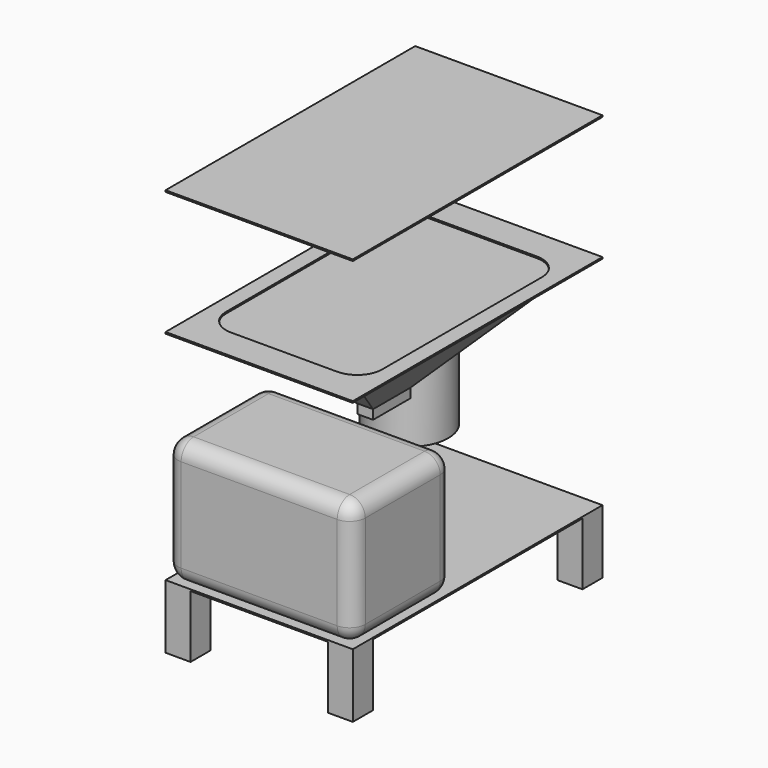
from build123d import *

# Parameters (mm, degrees)
F4_W       = 600
F4_H       = 1000
F5_DEPTH   = 5
F7_DEPTH   = 400
F8_R       = 50
F9_R       = 50
F10_W      = 600
F10_H      = 1000
F11_DEPTH  = 5
F13_DEPTH  = 5
F15_DEPTH  = 30
F16_R      = 125
F17_DEPTH  = 250
F18_W      = 50
F18_H      = 150
F19_DEPTH  = 30
F19_FACE_W = 50
F19_FACE_H = 150
F15_FACE_W = 500
F15_FACE_H = 800
F21_W      = 600
F21_H      = 1000
F22_DEPTH  = 5
F23_W      = 80
F23_H      = 80
F24_DEPTH  = 200


with BuildPart() as f5:
    # F4 (on offset) → F5 (new body)
    with BuildSketch(Plane.XY.offset(-450)):
        Rectangle(F4_W, F4_H)
    extrude(amount=F5_DEPTH)

    # F23 (on face) → F24 (join)
    with BuildSketch(Plane(origin=(0, 0, -450), x_dir=(1, 0, 0), z_dir=(0, 0, -1))):
        with Locations((-260, 460)):
            Rectangle(F23_W, F23_H)
        with Locations((260, 460)):
            Rectangle(F23_W, F23_H)
        with Locations((260, -460)):
            Rectangle(F23_W, F23_H)
        with Locations((-260, -460)):
            Rectangle(F23_W, F23_H)
    extrude(amount=F24_DEPTH)


with BuildPart() as f7:
    # F6 (on face) → F7 (new body)
    with BuildSketch(Plane.XY.offset(-445)):
        with BuildLine():
            ThreePointArc((-300, -450), (-285.3553390593, -485.3553390593), (-250, -500))
            Line((-250, -500), (250, -500))
            ThreePointArc((250, -500), (285.3553390593, -485.3553390593), (300, -450))
            Line((300, -450), (300, -150))
            ThreePointArc((300, -150), (285.3553390593, -114.6446609407), (250, -100))
            Line((250, -100), (-250, -100))
            ThreePointArc((-250, -100), (-285.3553390593, -114.6446609407), (-300, -150))
            Line((-300, -150), (-300, -450))
        make_face()
    extrude(amount=F7_DEPTH)

    # F8
    f8_edges = [f7.edges().sort_by_distance(p)[0] for p in [
        (300, -300, -45),
    ]]
    fillet(f8_edges, radius=F8_R)

    # F9
    f9_edges = [f7.edges().sort_by_distance(p)[0] for p in [
        (-285.355339, -114.644661, -445),
        (-300, -300, -445),
        (-285.355339, -485.355339, -445),
        (0, -500, -445),
        (285.355339, -485.355339, -445),
        (300, -300, -445),
        (285.355339, -114.644661, -445),
        (0, -100, -445),
    ]]
    fillet(f9_edges, radius=F9_R)


with BuildPart() as f11:
    # F10 (on offset) → F11 (new body)
    with BuildSketch(Plane.XY.offset(250)):
        Rectangle(F10_W, F10_H)
    extrude(amount=F11_DEPTH)

    # F12 (on face) → F13 (cut, symmetric)
    with BuildSketch(Plane.XY.offset(255)):
        with BuildLine():
            Line((170, 400), (-170, 400))
            ThreePointArc((-170, 400), (-226.5685424949, 376.5685424949), (-250, 320))
            Line((-250, 320), (-250, -320))
            ThreePointArc((-250, -320), (-226.5685424949, -376.5685424949), (-170, -400))
            Line((-170, -400), (170, -400))
            ThreePointArc((170, -400), (226.5685424949, -376.5685424949), (250, -320))
            Line((250, -320), (250, 320))
            ThreePointArc((250, 320), (226.5685424949, 376.5685424949), (170, 400))
        make_face()
    extrude(amount=F13_DEPTH, both=True, mode=Mode.SUBTRACT)


with BuildPart() as f15:
    # F14 (on face) → F15 (new body)
    with BuildSketch(Plane(origin=(0, 0, 250), x_dir=(1, 0, 0), z_dir=(0, 0, -1))):
        Polygon((170, 400), (-170, 400), (-250, 400), (-250, 320), (-250, -320), (-250, -400), (-170, -400), (170, -400), (250, -400), (250, -320), (250, 320), (250, 400), align=None)
    extrude(amount=F15_DEPTH)



with BuildPart() as f17:
    # F16 (on offset) → F17 (new body)
    with BuildSketch(Plane.XY.offset(-30)):
        with Locations((-155, 295)):
            Circle(F16_R)
    extrude(amount=-F17_DEPTH)


with BuildPart() as f19:
    # F18 (on offset) → F19 (new body)
    with BuildSketch(Plane.XY.offset(-30)):
        Rectangle(F18_W, F18_H)
    extrude(amount=-F19_DEPTH)


with BuildPart() as f15_1:
    add(f15.part)

    add(f19.part)  # F20 merges F19
    # F19_face (on face) → F20 section 0
    with BuildSketch(Plane.XY.offset(-30)):
        Rectangle(F19_FACE_W, F19_FACE_H)
    # F15_face (on face) → F20 section 1
    with BuildSketch(Plane(origin=(0, 0, 220), x_dir=(1, 0, 0), z_dir=(0, 0, -1))):
        Rectangle(F15_FACE_W, F15_FACE_H)
    loft()


with BuildPart() as f22:
    # F21 (on offset) → F22 (new body)
    with BuildSketch(Plane.XY.offset(650)):
        Rectangle(F21_W, F21_H)
    extrude(amount=F22_DEPTH)


solid = Compound([f5.part, f7.part, f11.part, f17.part, f15_1.part, f22.part])
